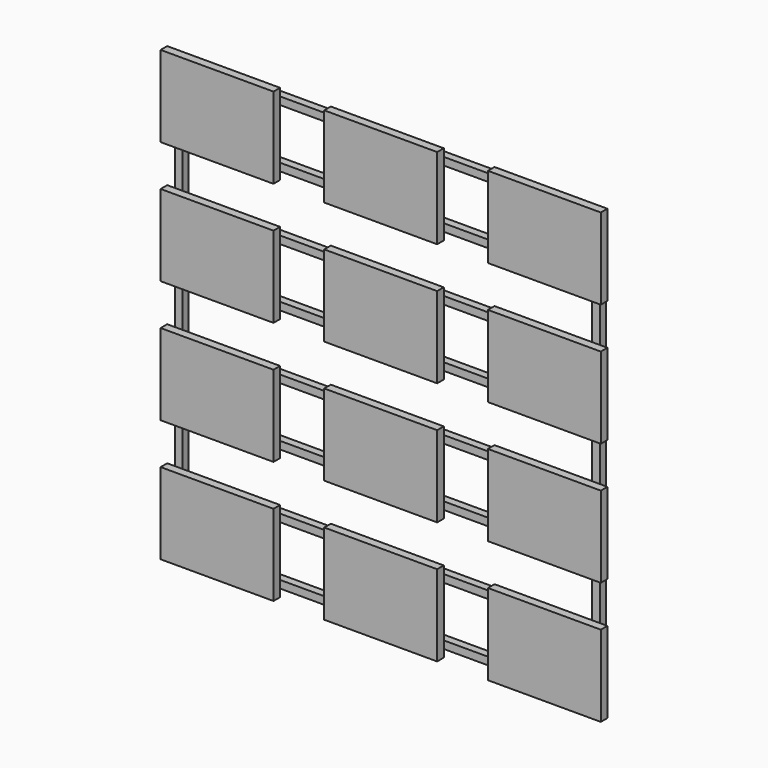
from build123d import *

# Parameters (mm, degrees)
F0_W     = 670
F0_H     = 683
F0_W_2   = 646
F0_H_2   = 80
F0_H_3   = 89
F1_DEPTH = 12
F2_W     = 178
F2_H     = 128
F3_DEPTH = 13


with BuildPart() as f1:
    # F0 (on Front) → F1 (new body)
    with BuildSketch(Plane.XZ):
        with Locations((347, -353.5)):
            Rectangle(F0_W, F0_H)
        with Locations((347, -643)):
            Rectangle(F0_W_2, F0_H_2, mode=Mode.SUBTRACT)
        with Locations((347, -546.5)):
            Rectangle(F0_W_2, F0_H_3, mode=Mode.SUBTRACT)
        with Locations((347, -450)):
            Rectangle(F0_W_2, F0_H_2, mode=Mode.SUBTRACT)
        with Locations((347, -353.5)):
            Rectangle(F0_W_2, F0_H_3, mode=Mode.SUBTRACT)
        with Locations((347, -257)):
            Rectangle(F0_W_2, F0_H_2, mode=Mode.SUBTRACT)
        with Locations((347, -160.5)):
            Rectangle(F0_W_2, F0_H_3, mode=Mode.SUBTRACT)
        with Locations((347, -64)):
            Rectangle(F0_W_2, F0_H_2, mode=Mode.SUBTRACT)
    extrude(amount=-F1_DEPTH)


with BuildPart() as f3:
    # F2 (on Front) → F3 (new body)
    with BuildSketch(Plane.XZ):
        with Locations((89, -64)):
            Rectangle(F2_W, F2_H)
        with Locations((347, -64)):
            Rectangle(F2_W, F2_H)
        with Locations((605, -64)):
            Rectangle(F2_W, F2_H)
        with Locations((89, -257)):
            Rectangle(F2_W, F2_H)
        with Locations((347, -257)):
            Rectangle(F2_W, F2_H)
        with Locations((605, -257)):
            Rectangle(F2_W, F2_H)
        with Locations((89, -450)):
            Rectangle(F2_W, F2_H)
        with Locations((347, -450)):
            Rectangle(F2_W, F2_H)
        with Locations((605, -450)):
            Rectangle(F2_W, F2_H)
        with Locations((89, -643)):
            Rectangle(F2_W, F2_H)
        with Locations((347, -643)):
            Rectangle(F2_W, F2_H)
        with Locations((605, -643)):
            Rectangle(F2_W, F2_H)
    extrude(amount=F3_DEPTH)


solid = Compound([f1.part, f3.part])
